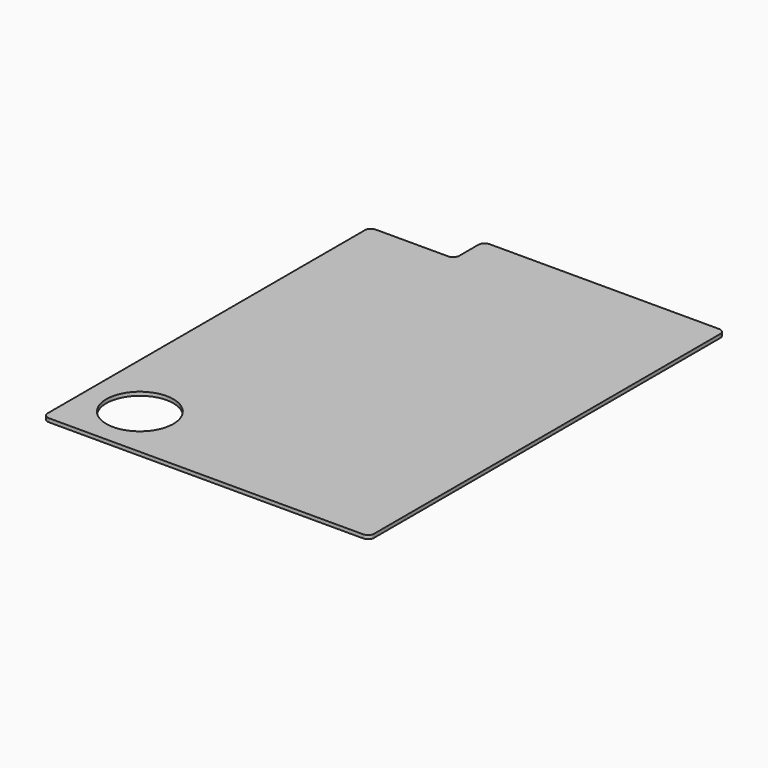
from build123d import *

# Parameters (mm, degrees)
PAD012_DEPTH            = 3
SKETCH090_R             = 27.75
POCKET039_DEPTH         = 0.001
POCKET039_DEPTH_BACK    = 3.001
POCKET040_DEPTH         = 0.001
POCKET040_DEPTH_BACK    = 3.001
BODY081_PLACEMENT_ANGLE = 90


with BuildPart() as part:
    # Sketch089 → Pad012 (new body)
    with BuildSketch(Plane.XY):
        with BuildLine():
            ThreePointArc((-184, -130), (-182.535534, -133.535534), (-179, -135))
            Line((179, -135), (-179, -135))
            ThreePointArc((179, -135), (182.535534, -133.535534), (184, -130))
            Line((184, 130), (184, -130))
            ThreePointArc((184, 130), (182.535534, 133.535534), (179, 135))
            Line((-179, 135), (179, 135))
            ThreePointArc((-179, 135), (-182.535534, 133.535534), (-184, 130))
            Line((-184, -130), (-184, 130))
        make_face()
    extrude(amount=PAD012_DEPTH)

    # Sketch090 → Pocket039 (cut, two sides)
    with BuildSketch(Plane(origin=(-140, 90, 0), x_dir=(1, 0, 0), z_dir=(0, 0, 1))) as pocket039_sk:
        Circle(SKETCH090_R)
    extrude(amount=-POCKET039_DEPTH, mode=Mode.SUBTRACT)
    extrude(pocket039_sk.sketch, amount=POCKET039_DEPTH_BACK, mode=Mode.SUBTRACT)

    # Sketch091 → Pocket040 (cut, two sides)
    with BuildSketch(Plane.XY) as pocket040_sk:
        with BuildLine():
            Line((184, 135), (149, 135))
            ThreePointArc((154, 130), (152.535534, 133.535534), (149, 135))
            Line((154, 130), (154, 70))
            ThreePointArc((154, 70), (155.464466, 66.464466), (159, 65))
            Line((159, 65), (179, 65))
            ThreePointArc((184, 60), (182.535534, 63.535534), (179, 65))
            Line((184, 60), (184, 135))
        make_face()
    extrude(amount=-POCKET040_DEPTH, mode=Mode.SUBTRACT)
    extrude(pocket040_sk.sketch, amount=POCKET040_DEPTH_BACK, mode=Mode.SUBTRACT)


with BuildPart() as part_1:
    # Body081 placement: moved
    add(part.part.moved(Location((1341, 1390, 0))).rotate(Axis((1341, 1390, 0), (0, 0, 1)), BODY081_PLACEMENT_ANGLE))


solid = part_1.part
